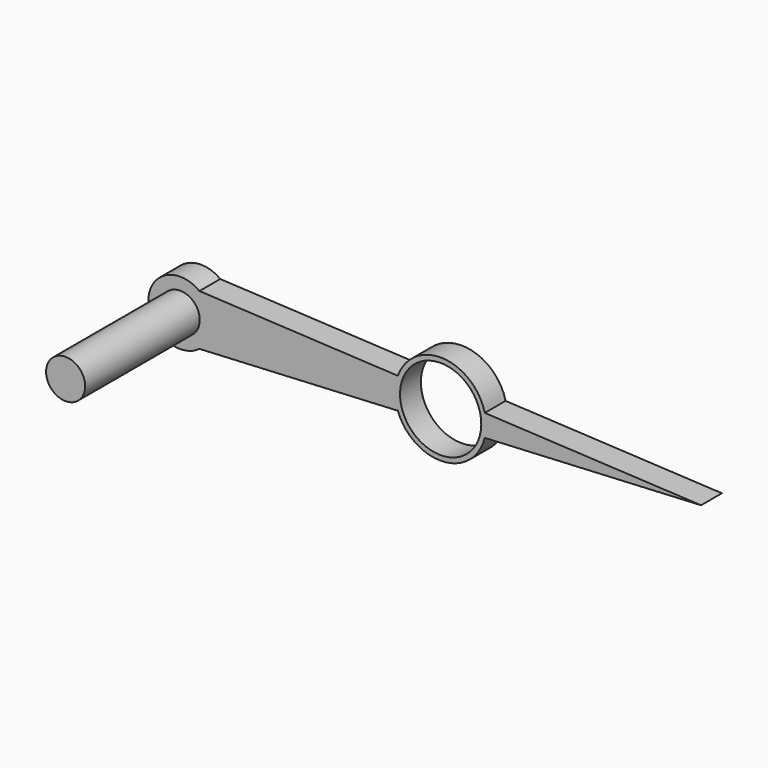
from build123d import *

# Parameters (mm, degrees)
F0_R     = 3.119034
F1_DEPTH = 1
F2_R     = 1.5
F3_DEPTH = 13


with BuildPart() as f1:
    # F0 (on Front) → F1 (new body, symmetric)
    with BuildSketch(Plane.XZ):
        with BuildLine():
            ThreePointArc((1.47637, -1.955206), (2.193126, -1.092106), (2.45, 0))
            ThreePointArc((2.45, 0), (2.193126, 1.092106), (1.47637, 1.955206))
            ThreePointArc((1.47637, 1.955206), (-2.45, 0), (1.47637, -1.955206))
        make_face()
        with BuildLine():
            ThreePointArc((1.47637, 1.955206), (2.193126, 1.092106), (2.45, 0))
            ThreePointArc((2.45, 0), (2.193126, -1.092106), (1.47637, -1.955206))
            Line((1.47637, -1.955206), (16.712802, -1.181905))
            ThreePointArc((16.712802, -1.181905), (16.506782, 0), (16.712802, 1.181905))
            Line((16.712802, 1.181905), (1.47637, 1.955206))
        make_face()
        with BuildLine():
            ThreePointArc((23.38997, 0.843016), (20.177065, 3.488727), (16.712802, 1.181905))
            ThreePointArc((16.712802, 1.181905), (16.506782, 0), (16.712802, -1.181905))
            ThreePointArc((16.712802, -1.181905), (20.177065, -3.488727), (23.38997, -0.843016))
            ThreePointArc((23.38997, -0.843016), (23.46731, -0.424657), (23.493218, 0))
            ThreePointArc((23.493218, 0), (23.46731, 0.424657), (23.38997, 0.843016))
        make_face()
        with Locations((20, 0)):
            Circle(F0_R, mode=Mode.SUBTRACT)
        with BuildLine():
            Line((40, 0), (23.38997, 0.843016))
            ThreePointArc((23.38997, 0.843016), (23.46731, 0.424657), (23.493218, 0))
            ThreePointArc((23.493218, 0), (23.46731, -0.424657), (23.38997, -0.843016))
            Line((23.38997, -0.843016), (40, 0))
        make_face()
    extrude(amount=F1_DEPTH, both=True)

    # F2 (on face) → F3 (join)
    with BuildSketch(Plane(origin=(0, 1, 0), x_dir=(-1, 0, 0), z_dir=(0, 1, 0))):
        Circle(F2_R)
    extrude(amount=-F3_DEPTH)


solid = f1.part
